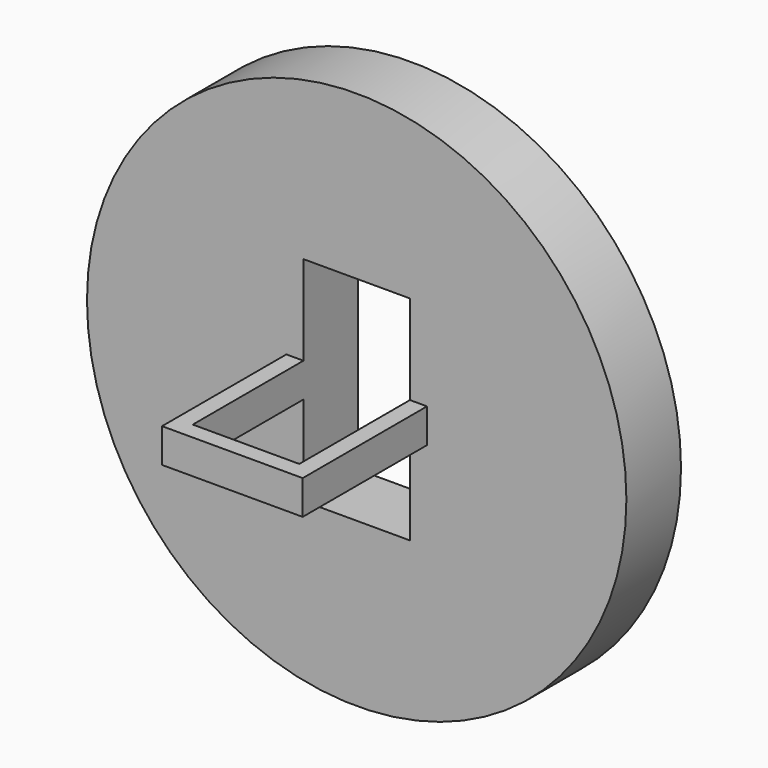
from build123d import *

# Parameters (mm, degrees)
F0_R     = 50.165
F0_W     = 19.812
F0_H     = 39.624
F1_DEPTH = 12.7
F3_DEPTH = 28.9052
F4_W     = 3.175
F4_H     = 6.35
F5_DEPTH = 19.812


with BuildPart() as f1:
    # F0 (on Front) → F1 (new body)
    with BuildSketch(Plane.XZ):
        with Locations((-8.635654, -2.157946)):
            Circle(F0_R)
        with Locations((-8.635654, -2.157946)):
            Rectangle(F0_W, F0_H, mode=Mode.SUBTRACT)
    extrude(amount=F1_DEPTH)

    # F2 (on face) → F3 (join)
    with BuildSketch(Plane.XZ.offset(12.7)):
        Polygon((-18.541654, -2.157946), (-18.541654, 1.017054), (-21.716654, 1.017054), (-21.716654, -2.157946), (-21.716654, -5.332946), (-18.541654, -5.332946), align=None)
        Polygon((4.445346, 1.017054), (1.270346, 1.017054), (1.270346, -2.157946), (1.270346, -5.332946), (4.445346, -5.332946), (4.445346, -2.157946), align=None)
    extrude(amount=F3_DEPTH)

    # F4 (on face) → F5 (join)
    with BuildSketch(Plane.YZ.offset(-18.541654)):
        with Locations((-40.0177, -2.157946)):
            Rectangle(F4_W, F4_H)
    extrude(amount=F5_DEPTH)


solid = f1.part
